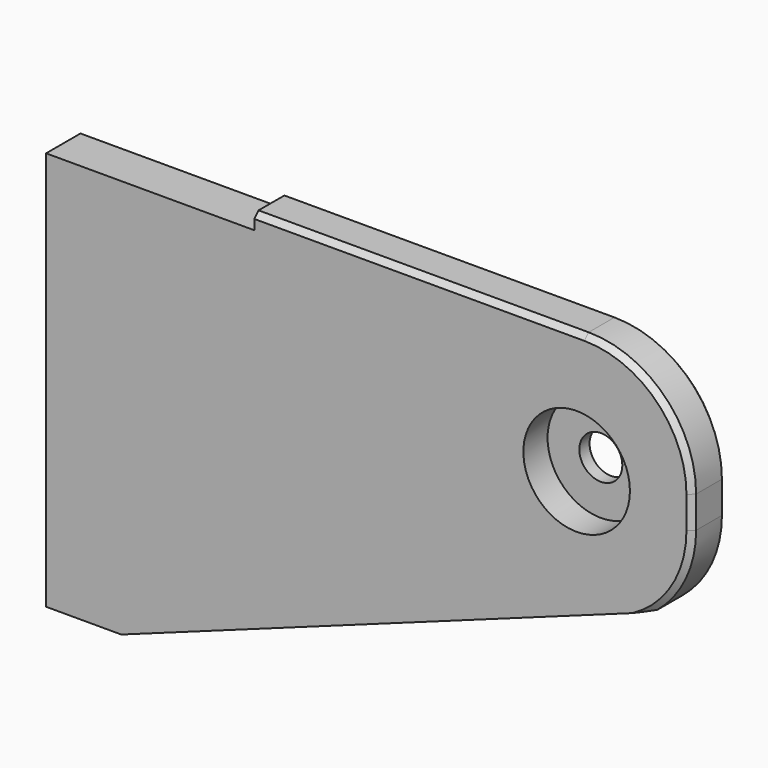
from build123d import *

# Parameters (mm, degrees)
F0_R     = 25.1841
F0_R_2   = 10.16
F1_DEPTH = 20.32
F2_DEPTH = 14.2875
F3_DEPTH = 25.4
F4_SIZE  = 2.54


with BuildPart() as f1:
    # F0 (on Front) → F1 (new body)
    with BuildSketch(Plane.XZ):
        with BuildLine():
            Line((98.425, 0), (0, 0))
            Line((0, 0), (0, -188.722))
            Line((0, -188.722), (35.541445, -188.722))
            Line((35.541445, -188.722), (254.477584, -109.443526))
            Line((254.477584, -109.443526), (287.002941, -97.665842))
            ThreePointArc((287.002941, -97.665842), (300.482628, -80.188269), (305.277584, -58.643526))
            Line((305.277584, -58.643526), (305.277584, -43.561))
            ThreePointArc((305.277584, -43.561), (290.398609, -7.639976), (254.477584, 7.239))
            Line((254.477584, 7.239), (152.877584, 7.239))
            Line((152.877584, 7.239), (98.425, 7.239))
            Line((98.425, 7.239), (98.425, 0))
        make_face()
        with Locations((250.825, -50.8)):
            Circle(F0_R, mode=Mode.SUBTRACT)
        with Locations((250.825, -50.8)):
            Circle(F0_R)
        with Locations((250.825, -50.8)):
            Circle(F0_R_2, mode=Mode.SUBTRACT)
        with Locations((250.825, -50.8)):
            Circle(F0_R_2)
    extrude(amount=-F1_DEPTH)

    # F0 (on Front) → F2 (cut)
    with BuildSketch(Plane.XZ):
        with Locations((250.825, -50.8)):
            Circle(F0_R)
        with Locations((250.825, -50.8)):
            Circle(F0_R_2, mode=Mode.SUBTRACT)
    extrude(amount=-F2_DEPTH, mode=Mode.SUBTRACT)

    # F0 (on Front) → F3 (cut)
    with BuildSketch(Plane.XZ):
        with Locations((250.825, -50.8)):
            Circle(F0_R_2)
    extrude(amount=-F3_DEPTH, mode=Mode.SUBTRACT)

    # F4
    f4_edges = [f1.edges().sort_by_distance(p)[0] for p in [
        (176.451292, 0, 7.239),
        (176.451292, 20.32, 7.239),
    ]]
    chamfer(f4_edges, length=F4_SIZE)


solid = f1.part
